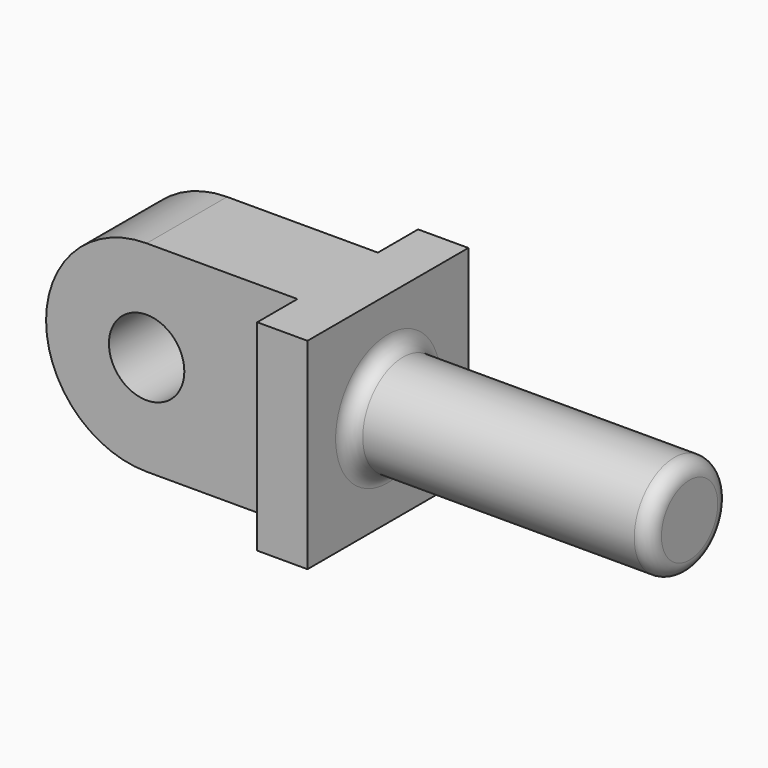
from build123d import *

# Parameters (mm, degrees)
F0_R     = 9.525
F1_DEPTH = 25.4
F3_DEPTH = 12.7
F4_R     = 12.7
F5_DEPTH = 76.2
F6_R     = 3.81


with BuildPart() as f1:
    # F0 (on Front) → F1 (new body)
    with BuildSketch(Plane.XZ):
        with BuildLine():
            Line((38.1, 25.4), (0, 25.4))
            ThreePointArc((0, 25.4), (-25.4, 0), (0, -25.4))
            Line((0, -25.4), (38.1, -25.4))
            Line((38.1, -25.4), (38.1, 25.4))
        make_face()
        Circle(F0_R, mode=Mode.SUBTRACT)
    extrude(amount=F1_DEPTH)

    # F2 (on face) → F3 (join)
    with BuildSketch(Plane.YZ.offset(38.1)):
        Polygon((12.7, 25.4), (0, 25.4), (-25.4, 25.4), (-38.1, 25.4), (-38.1, -25.4), (-25.4, -25.4), (0, -25.4), (12.7, -25.4), align=None)
    extrude(amount=F3_DEPTH)

    # F4 (on face) → F5 (join)
    with BuildSketch(Plane.YZ.offset(50.8)):
        with Locations((-12.7, 0)):
            Circle(F4_R)
    extrude(amount=F5_DEPTH)

    # F6
    f6_edges = [f1.edges().sort_by_distance(p)[0] for p in [
        (127, -25.4, 0),
        (50.8, -25.4, 0),
    ]]
    fillet(f6_edges, radius=F6_R)


solid = f1.part
